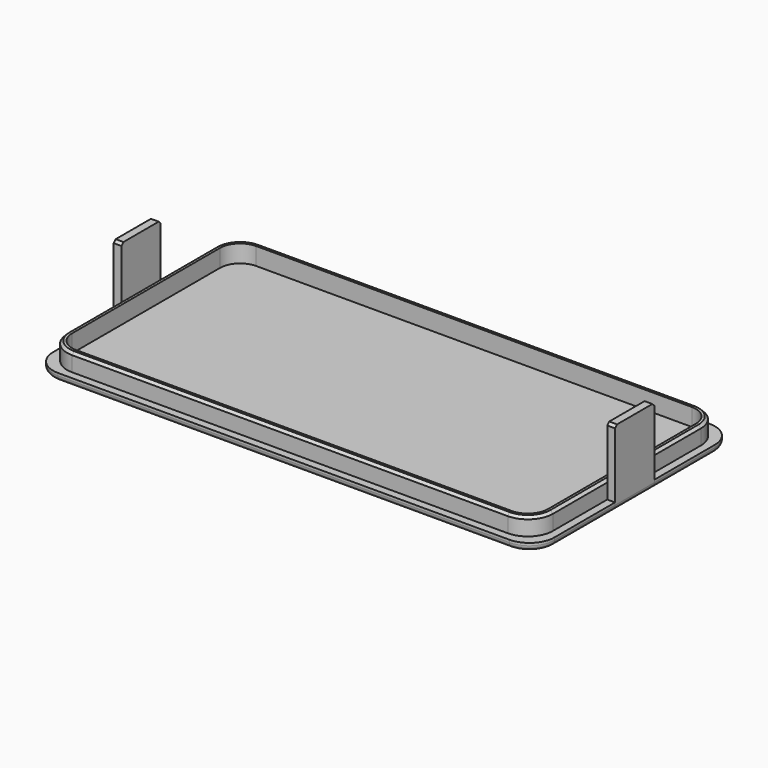
from build123d import *

# Parameters (mm, degrees)
F1_DEPTH  = 3
F2_DEPTH  = 10
F0_W      = 3.1
F0_H      = 19.6
F3_DEPTH  = 30
F4_SIZE   = 1
F4_2_SIZE = 1
F5_R      = 2
F5_2_R    = 2


with BuildPart() as f1:
    # F0 (on Top) → F1 (new body)
    with BuildSketch(Plane.XY):
        with BuildLine():
            Line((96.8, 36.9), (96.8, 9.8))
            Line((96.8, 9.8), (99.9, 9.8))
            Line((99.9, 9.8), (99.9, 40))
            ThreePointArc((99.9, 40), (96.971068, 47.071068), (89.9, 50))
            Line((89.9, 50), (-90.1, 50))
            ThreePointArc((-90.1, 50), (-97.171068, 47.071068), (-100.1, 40))
            Line((-100.1, 40), (-100.1, 9.8))
            Line((-100.1, 9.8), (-97, 9.8))
            Line((-97, 9.8), (-97, 36.9))
            ThreePointArc((-97, 36.9), (-94.071068, 43.971068), (-87, 46.9))
            Line((-87, 46.9), (86.8, 46.9))
            ThreePointArc((86.8, 46.9), (93.871068, 43.971068), (96.8, 36.9))
        make_face()
        with BuildLine():
            ThreePointArc((94.8, 36.9), (92.456854, 42.556854), (86.8, 44.9))
            Line((86.8, 44.9), (-87, 44.9))
            ThreePointArc((-87, 44.9), (-92.656854, 42.556854), (-95, 36.9))
            Line((-95, 36.9), (-95, -36.9))
            ThreePointArc((-95, -36.9), (-92.656854, -42.556854), (-87, -44.9))
            Line((-87, -44.9), (86.8, -44.9))
            ThreePointArc((86.8, -44.9), (92.456854, -42.556854), (94.8, -36.9))
            Line((94.8, -36.9), (94.8, 36.9))
        make_face()
        with BuildLine():
            ThreePointArc((96.8, -36.9), (93.871068, -43.971068), (86.8, -46.9))
            Line((86.8, -46.9), (-87, -46.9))
            ThreePointArc((-87, -46.9), (-94.071068, -43.971068), (-97, -36.9))
            Line((-97, -36.9), (-97, -9.8))
            Line((-97, -9.8), (-100.1, -9.8))
            Line((-100.1, -9.8), (-100.1, -40))
            ThreePointArc((-100.1, -40), (-97.171068, -47.071068), (-90.1, -50))
            Line((-90.1, -50), (89.9, -50))
            ThreePointArc((89.9, -50), (96.971068, -47.071068), (99.9, -40))
            Line((99.9, -40), (99.9, -9.8))
            Line((99.9, -9.8), (96.8, -9.8))
            Line((96.8, -9.8), (96.8, -36.9))
        make_face()
    extrude(amount=F1_DEPTH)

    # F5
    f5_edges = [f1.edges().sort_by_distance(p)[0] for p in [
        (99.9, -24.9, 0),
        (99.9, 24.9, 0),
    ]]
    fillet(f5_edges, radius=F5_R)


with BuildPart() as f2:
    # F0 (on Top) → F2 (new body)
    with BuildSketch(Plane.XY):
        with BuildLine():
            Line((-87, -46.9), (86.8, -46.9))
            ThreePointArc((86.8, -46.9), (93.871068, -43.971068), (96.8, -36.9))
            Line((96.8, -36.9), (96.8, -9.8))
            Line((96.8, -9.8), (96.8, 9.8))
            Line((96.8, 9.8), (96.8, 36.9))
            ThreePointArc((96.8, 36.9), (93.871068, 43.971068), (86.8, 46.9))
            Line((86.8, 46.9), (-87, 46.9))
            ThreePointArc((-87, 46.9), (-94.071068, 43.971068), (-97, 36.9))
            Line((-97, 36.9), (-97, 9.8))
            Line((-97, 9.8), (-97, -9.8))
            Line((-97, -9.8), (-97, -36.9))
            ThreePointArc((-97, -36.9), (-94.071068, -43.971068), (-87, -46.9))
        make_face()
        with BuildLine():
            Line((-87, 44.9), (86.8, 44.9))
            ThreePointArc((86.8, 44.9), (92.456854, 42.556854), (94.8, 36.9))
            Line((94.8, 36.9), (94.8, -36.9))
            ThreePointArc((94.8, -36.9), (92.456854, -42.556854), (86.8, -44.9))
            Line((86.8, -44.9), (-87, -44.9))
            ThreePointArc((-87, -44.9), (-92.656854, -42.556854), (-95, -36.9))
            Line((-95, -36.9), (-95, 36.9))
            ThreePointArc((-95, 36.9), (-92.656854, 42.556854), (-87, 44.9))
        make_face(mode=Mode.SUBTRACT)
    extrude(amount=F2_DEPTH)

    # F4#2
    f4_2_edges = [f2.edges().sort_by_distance(p)[0] for p in [
        (96.8, 0, 10),
    ]]
    chamfer(f4_2_edges, length=F4_2_SIZE)


with BuildPart() as f3:
    # F0 (on Top) → F3 (new body)
    with BuildSketch(Plane.XY):
        with Locations((-98.55, 0)):
            Rectangle(F0_W, F0_H)
        with Locations((98.35, 0)):
            Rectangle(F0_W, F0_H)
    extrude(amount=F3_DEPTH)

    # F4
    f4_edges = [f3.edges().sort_by_distance(p)[0] for p in [
        (-98.55, -9.8, 30),
        (-98.55, 9.8, 30),
        (98.35, 9.8, 30),
        (98.35, -9.8, 30),
    ]]
    chamfer(f4_edges, length=F4_SIZE)

    # F5#2
    f5_2_edges = [f3.edges().sort_by_distance(p)[0] for p in [
        (99.9, 0, 0),
        (-100.1, 0, 0),
    ]]
    fillet(f5_2_edges, radius=F5_2_R)


solid = Compound([f1.part, f2.part, f3.part])
